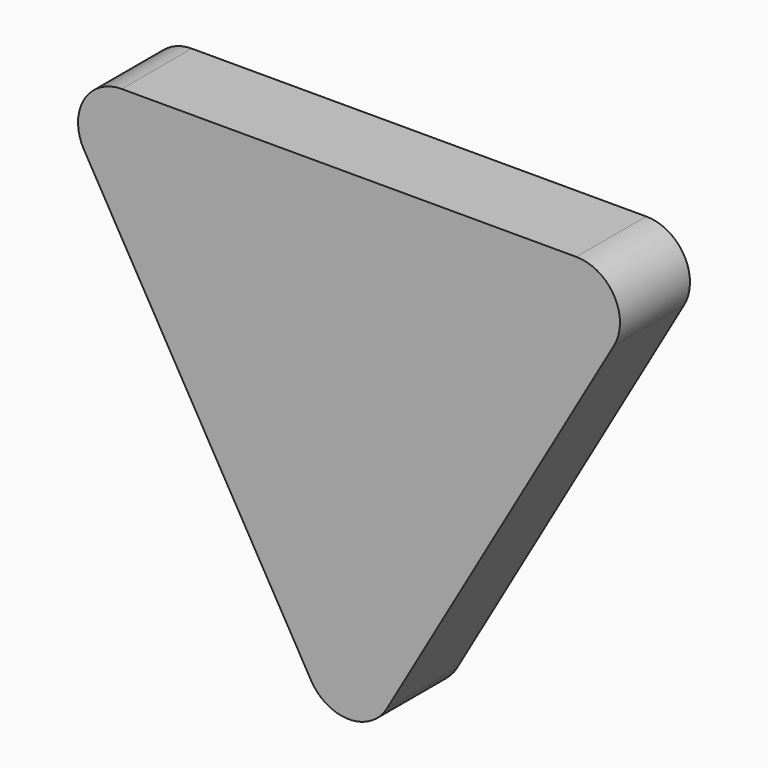
from build123d import *

# Parameters (mm, degrees)
F1_DEPTH = 12.7


with BuildPart() as f1:
    # F0 (on Front) → F1 (new body)
    with BuildSketch(Plane.XZ):
        with BuildLine():
            Line((32.995568, 25.4), (-32.995568, 25.4))
            ThreePointArc((-32.995568, 25.4), (-38.494829, 22.225), (-38.494829, 15.875))
            Line((-38.494829, 15.875), (-5.499261, -41.275))
            ThreePointArc((-5.499261, -41.275), (0, -44.45), (5.499261, -41.275))
            Line((5.499261, -41.275), (38.494829, 15.875))
            ThreePointArc((38.494829, 15.875), (38.494829, 22.225), (32.995568, 25.4))
        make_face()
    extrude(amount=F1_DEPTH)


solid = f1.part
